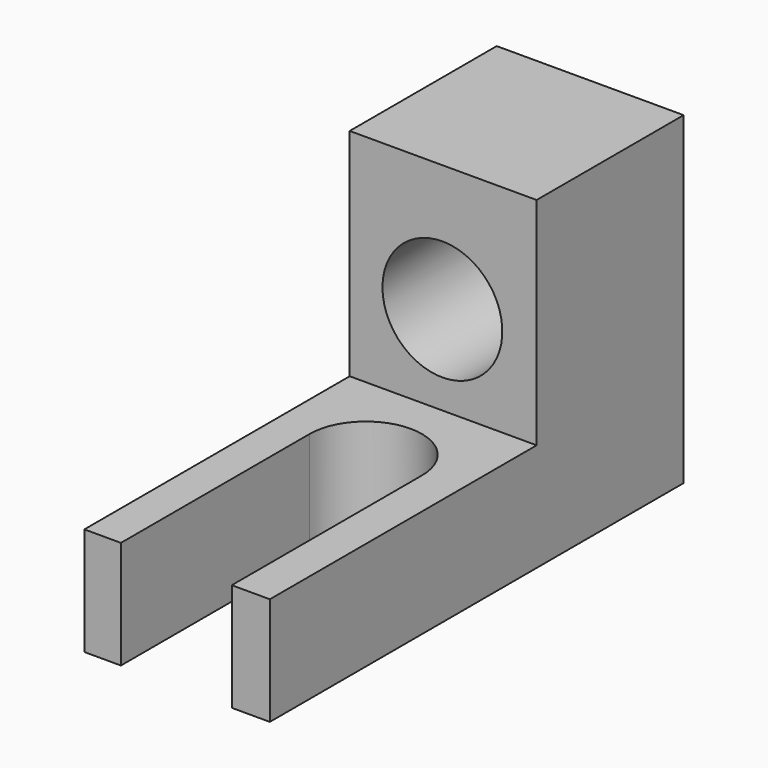
from build123d import *

# Parameters (mm, degrees)
F1_DEPTH = 25
F2_W     = 43.2835130529
F2_H     = 42.5491245473
F3_DEPTH = 50
F4_R     = 13.8760258661
F5_DEPTH = 119.7601809589


with BuildPart() as f1:
    # F0 (on Top) → F1 (new body)
    with BuildSketch(Plane.XY):
        with BuildLine():
            ThreePointArc((21.4635129483, 0), (19.2315893312, -9.5303913811), (13, -17.0787115463))
            Line((13, -17.0787115463), (13, -55.0494629913))
            Line((13, -55.0494629913), (21.8200001046, -55.0494629913))
            Line((21.8200001046, -55.0494629913), (21.8200001046, 0))
            Line((21.8200001046, 0), (21.8200001046, 64.7097179676))
            Line((21.8200001046, 64.7097179676), (-21.4635129483, 64.7097179676))
            Line((-21.4635129483, 64.7097179676), (-21.4635129483, 0))
            ThreePointArc((-21.4635129483, 0), (0, 21.4635129483), (21.4635129483, 0))
        make_face()
        with BuildLine():
            Line((-13, -54.6302845692), (-13, -17.0787115463))
            ThreePointArc((-13, -17.0787115463), (-19.2315893312, -9.5303913811), (-21.4635129483, 0))
            Line((-21.4635129483, 0), (-21.4635129483, -54.6302845692))
            Line((-21.4635129483, -54.6302845692), (-13, -54.6302845692))
        make_face()
        with BuildLine():
            ThreePointArc((-13, 0), (0, 13), (13, 0))
            Line((13, 0), (13, -17.0787115463))
            ThreePointArc((13, -17.0787115463), (19.2315893312, -9.5303913811), (21.4635129483, 0))
            ThreePointArc((21.4635129483, 0), (0, 21.4635129483), (-21.4635129483, 0))
            ThreePointArc((-21.4635129483, 0), (-19.2315893312, -9.5303913811), (-13, -17.0787115463))
            Line((-13, -17.0787115463), (-13, 0))
        make_face()
    extrude(amount=F1_DEPTH)

    # F2 (on face) → F3 (join)
    with BuildSketch(Plane.XY.offset(25)):
        with Locations((0.1782435782, 43.4351556939)):
            Rectangle(F2_W, F2_H)
    extrude(amount=F3_DEPTH)

    # F4 (on face) → F5 (cut, through all)
    with BuildSketch(Plane(origin=(0, 64.7097179676, 0), x_dir=(-1, 0, 0), z_dir=(0, 1, 0))):
        with Locations((0, 45.6084646285)):
            Circle(F4_R)
    extrude(amount=-F5_DEPTH, mode=Mode.SUBTRACT)


solid = f1.part
